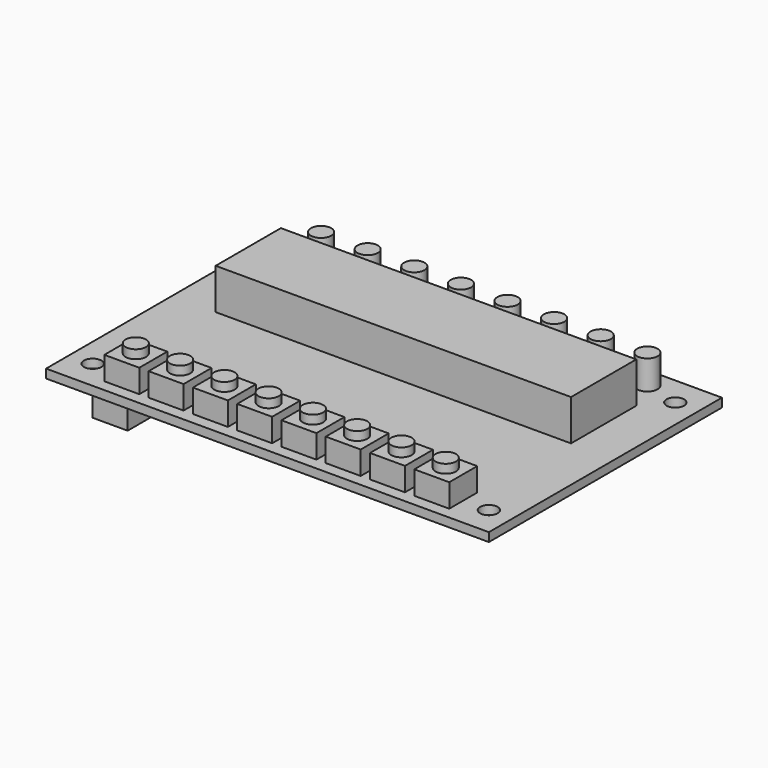
from build123d import *

# Parameters (mm, degrees)
SKETCH_W     = 76
SKETCH_H     = 50
PAD_DEPTH    = 1.5
SKETCH001_R  = 1.5
POCKET_DEPTH = 1.501
SKETCH002_R  = 1.75
PAD001_DEPTH = 5
SKETCH003_W  = 61
SKETCH003_H  = 14
PAD002_DEPTH = 7
SKETCH004_W  = 6
SKETCH004_H  = 15
PAD003_DEPTH = 10
SKETCH005_W  = 6
SKETCH005_H  = 6
PAD004_DEPTH = 4
SKETCH006_R  = 1.75
PAD005_DEPTH = 1.5


with BuildPart() as part:
    # Sketch → Pad (new body)
    with BuildSketch(Plane.XY):
        Rectangle(SKETCH_W, SKETCH_H)
    extrude(amount=PAD_DEPTH)

    # Sketch001 (on Face6 of Pad) → Pocket (cut, through all)
    with BuildSketch(Plane.XY.offset(1.5)):
        with Locations((-34, 20)):
            Circle(SKETCH001_R)
        with Locations((34, 20)):
            Circle(SKETCH001_R)
        with Locations((-34, -20)):
            Circle(SKETCH001_R)
        with Locations((34, -20)):
            Circle(SKETCH001_R)
    extrude(amount=-POCKET_DEPTH, mode=Mode.SUBTRACT)

    # Sketch002 (on Face5 of Pocket) → Pad001 (join)
    with BuildSketch(Plane.XY.offset(1.5)):
        with Locations((-28, 21.5)):
            Circle(SKETCH002_R)
        with Locations((-20, 21.5)):
            Circle(SKETCH002_R)
        with Locations((-12, 21.5)):
            Circle(SKETCH002_R)
        with Locations((-4, 21.5)):
            Circle(SKETCH002_R)
        with Locations((4, 21.5)):
            Circle(SKETCH002_R)
        with Locations((12, 21.5)):
            Circle(SKETCH002_R)
        with Locations((20, 21.5)):
            Circle(SKETCH002_R)
        with Locations((28, 21.5)):
            Circle(SKETCH002_R)
    extrude(amount=PAD001_DEPTH)

    # Sketch003 (on Face5 of Pad001) → Pad002 (join)
    with BuildSketch(Plane.XY.offset(1.5)):
        with Locations((0, 9)):
            Rectangle(SKETCH003_W, SKETCH003_H)
    extrude(amount=PAD002_DEPTH)

    # Sketch004 (on Face4 of Pad002) → Pad003 (join)
    with BuildSketch(Plane(origin=(0, 0, 0), x_dir=(1, 0, 0), z_dir=(0, 0, -1))):
        with Locations((-35, 7.5)):
            Rectangle(SKETCH004_W, SKETCH004_H)
    extrude(amount=PAD003_DEPTH)

    # Sketch005 (on Face5 of Pad003) → Pad004 (join)
    with BuildSketch(Plane.XY.offset(1.5)):
        with Locations((-26.6, -20)):
            Rectangle(SKETCH005_W, SKETCH005_H)
        with Locations((-19, -20)):
            Rectangle(SKETCH005_W, SKETCH005_H)
        with Locations((-11.4, -20)):
            Rectangle(SKETCH005_W, SKETCH005_H)
        with Locations((-3.8, -20)):
            Rectangle(SKETCH005_W, SKETCH005_H)
        with Locations((3.8, -20)):
            Rectangle(SKETCH005_W, SKETCH005_H)
        with Locations((11.4, -20)):
            Rectangle(SKETCH005_W, SKETCH005_H)
        with Locations((19, -20)):
            Rectangle(SKETCH005_W, SKETCH005_H)
        with Locations((26.6, -20)):
            Rectangle(SKETCH005_W, SKETCH005_H)
    extrude(amount=PAD004_DEPTH)

    # Sketch006 (on Face67 of Pad004) → Pad005 (join)
    with BuildSketch(Plane.XY.offset(5.5)):
        with Locations((-26.6, -20)):
            Circle(SKETCH006_R)
        with Locations((-19, -20)):
            Circle(SKETCH006_R)
        with Locations((-11.4, -20)):
            Circle(SKETCH006_R)
        with Locations((-3.8, -20)):
            Circle(SKETCH006_R)
        with Locations((3.8, -20)):
            Circle(SKETCH006_R)
        with Locations((11.4, -20)):
            Circle(SKETCH006_R)
        with Locations((19, -20)):
            Circle(SKETCH006_R)
        with Locations((26.6, -20)):
            Circle(SKETCH006_R)
    extrude(amount=PAD005_DEPTH)


solid = part.part
